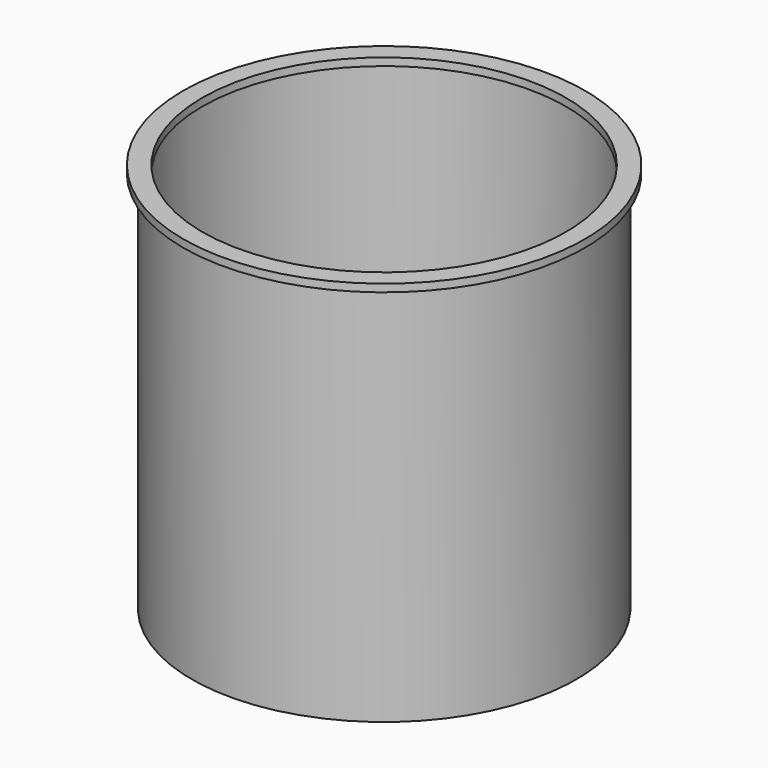
from build123d import *

# Parameters (mm, degrees)
F0_W = 20
F0_H = 4000


with BuildPart() as f1:
    # F0 (on Front) → F1 (revolve)
    with BuildSketch(Plane.XZ):
        Polygon((-2100, 0), (-2010, 0), (-1990, 0), (-1900, 0), (-1900, 80), (-2100, 80), align=None)
    revolve(axis=Axis((0, 0, -250), (0, 0, -1)))


with BuildPart() as f2:
    # F0 (on Front) → F2 (revolve)
    with BuildSketch(Plane.XZ):
        with Locations((-2000, -2000)):
            Rectangle(F0_W, F0_H)
    revolve(axis=Axis((0, 0, -250), (0, 0, -1)))


solid = Compound([f1.part, f2.part])
